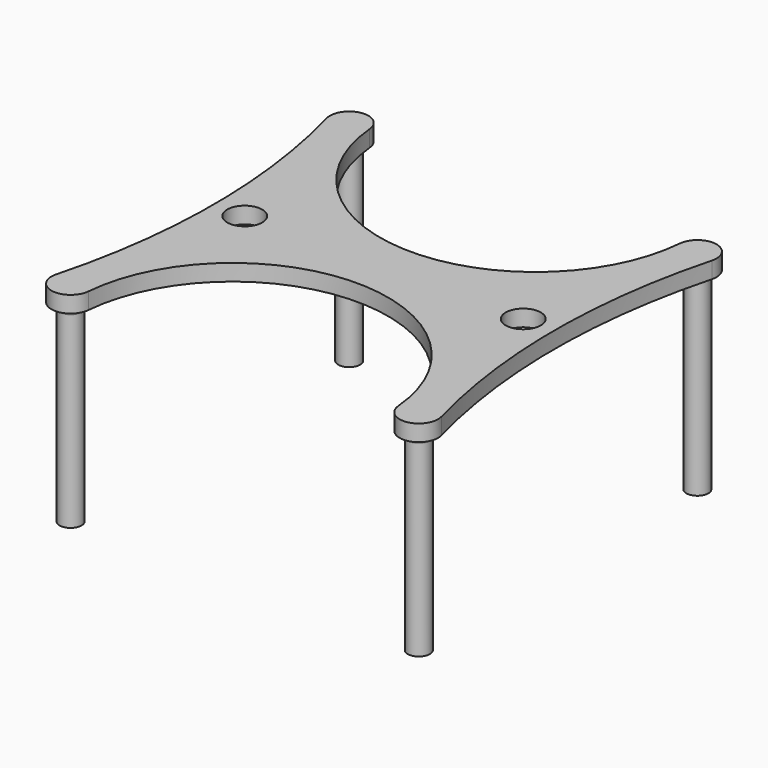
from build123d import *

# Parameters (mm, degrees)
SKETCH_R     = 3.2
PAD_DEPTH    = 3
SKETCH001_R  = 2
PAD001_DEPTH = 35.2
FILLET_R     = 1


with BuildPart() as part:
    # Sketch → Pad (new body)
    with BuildSketch(Plane.XY):
        with BuildLine():
            ThreePointArc((-28.263319, 32.055045), (0, 6.156485), (28.263319, 32.055045))
            ThreePointArc((35.13074, 30.844133), (32.357769, 35.196827), (28.263319, 32.055045))
            ThreePointArc((35.13074, 30.844133), (31.070033, 0), (35.13074, -30.844133))
            ThreePointArc((28.263319, -32.055045), (32.357769, -35.196827), (35.13074, -30.844133))
            ThreePointArc((28.263319, -32.055045), (0, -6.156485), (-28.263319, -32.055045))
            ThreePointArc((-35.13074, -30.844133), (-32.357769, -35.196827), (-28.263319, -32.055045))
            ThreePointArc((-35.13074, -30.844133), (-31.070033, 0), (-35.13074, 30.844133))
            ThreePointArc((-28.263319, 32.055045), (-32.357769, 35.196827), (-35.13074, 30.844133))
        make_face()
        with Locations((-25.4, 0)):
            Circle(SKETCH_R, mode=Mode.SUBTRACT)
        with Locations((25.4, 0)):
            Circle(SKETCH_R, mode=Mode.SUBTRACT)
    extrude(amount=PAD_DEPTH)

    # Sketch001 → Pad001 (join)
    with BuildSketch(Plane(origin=(0, 0, 0), x_dir=(1, 0, 0), z_dir=(0, 0, -1))):
        with Locations((-31.75, 31.75)):
            Circle(SKETCH001_R)
        with Locations((31.75, 31.75)):
            Circle(SKETCH001_R)
        with Locations((-31.75, -31.75)):
            Circle(SKETCH001_R)
        with Locations((31.75, -31.75)):
            Circle(SKETCH001_R)
    extrude(amount=PAD001_DEPTH)

    # Fillet
    fillet_edges = [part.edges().sort_by_distance(p)[0] for p in [
        (29.75, 31.75, 0),
        (29.75, -31.75, 0),
        (-33.75, 31.75, 0),
        (-33.75, -31.75, 0),
    ]]
    fillet(fillet_edges, radius=FILLET_R)


solid = part.part
